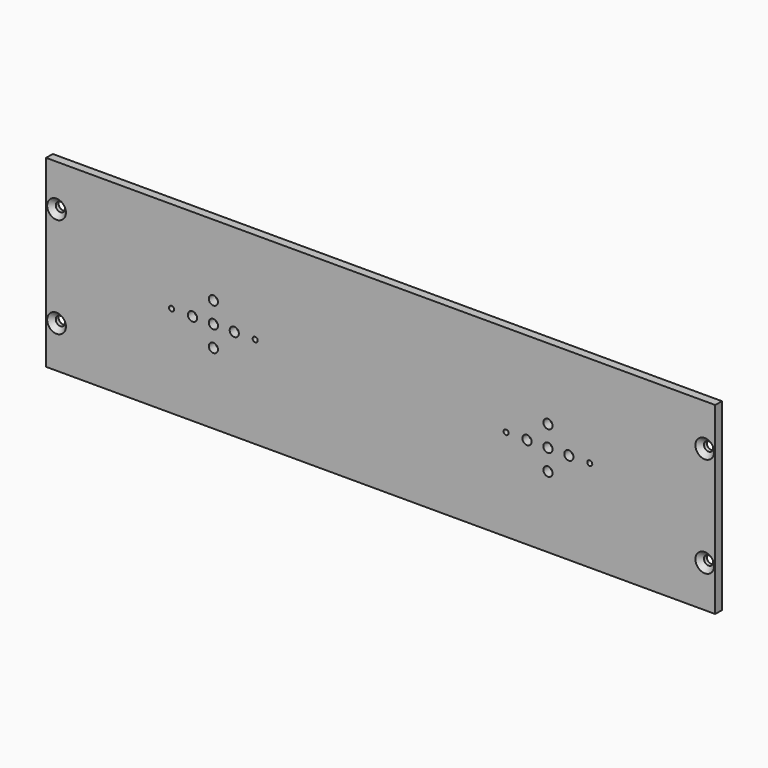
from build123d import *

# Parameters (mm, degrees)
F0_W           = 320
F0_H           = 88
F1_DEPTH       = 2
F3_D           = 4.4
F3_DEPTH       = 17.25
F3_CSINK_D     = 8.96
F3_CSINK_ANGLE = 90
F3_TIP         = 1.3218933619
F5_D           = 2.4
F6_D           = 4.4


with BuildPart() as f1:
    # F0 (on Front) → F1 (new body, symmetric)
    with BuildSketch(Plane.XZ):
        Rectangle(F0_W, F0_H)
    extrude(amount=F1_DEPTH, both=True)

    # F3
    with Locations(Plane.XZ.offset(2)):
        with Locations((155, 24), (155, -24), (-155, -24), (-155, 24)):
            CounterSinkHole(F3_D / 2, F3_CSINK_D / 2, depth=F3_DEPTH, counter_sink_angle=F3_CSINK_ANGLE)
            with Locations((0, 0, -(F3_DEPTH + F3_TIP / 2))):  # 118° drill point
                Cone(0, F3_D / 2, F3_TIP, mode=Mode.SUBTRACT)

    # F5 (through all)
    with Locations(Plane.XZ.offset(2)):
        with Locations((-100, 0), (-60, 0), (60, 0), (100, 0)):
            Hole(F5_D / 2)

    # F6 (through all)
    with Locations(Plane.XZ.offset(2)):
        with Locations((-90, 0), (-80, 10), (-80, 0), (-80, -10), (-70, 0), (70, 0), (80, 0), (90, 0), (80, 10), (80, -10)):
            Hole(F6_D / 2)


solid = f1.part
